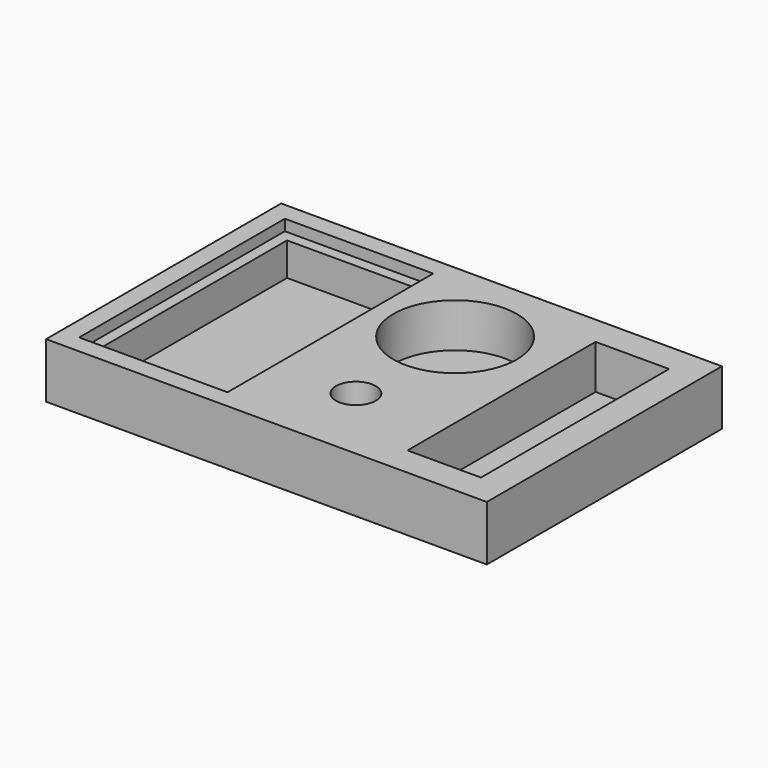
from build123d import *

# Parameters (mm, degrees)
F0_W     = 152.4
F0_H     = 101.6
F0_W_2   = 25.4
F0_H_2   = 81.28
F0_R     = 6.8811471087
F1_DEPTH = 19.05
F2_DEPTH = 3.81
F3_W     = 51.308
F3_H     = 88.9
F3_W_2   = 43.688
F3_H_2   = 81.28
F4_DEPTH = 3.81


with BuildPart() as f1:
    # F0 (on Top) → F1 (new body)
    with BuildSketch(Plane.XY):
        with Locations((-13.9326911301, 0.1037381589)):
            Rectangle(F0_W, F0_H)
        Polygon((-79.9726911301, -4.4682618411), (-79.9726911301, 40.7437381589), (-36.2846911301, 40.7437381589), (-26.1246911301, 40.7437381589), (-4.7886911301, 40.7437381589), (16.5473088699, 40.7437381589), (16.5473088699, 19.4077381589), (16.5473088699, -40.5362618411), (-26.1246911301, -40.5362618411), (-36.2846911301, -40.5362618411), (-79.9726911301, -40.5362618411), align=None, mode=Mode.SUBTRACT)
        with Locations((39.4073088699, 0.1037381589)):
            Rectangle(F0_W_2, F0_H_2, mode=Mode.SUBTRACT)
        with BuildLine():
            ThreePointArc((16.5473088699, 19.4077381589), (-4.7886911301, -1.9282618411), (-26.1246911301, 19.4077381589))
            Line((-26.1246911301, 19.4077381589), (-26.1246911301, -40.5362618411))
            Line((-26.1246911301, -40.5362618411), (16.5473088699, -40.5362618411))
            Line((16.5473088699, -40.5362618411), (16.5473088699, 19.4077381589))
        make_face()
        with Locations((-5.0076562911, -23.2165120542)):
            Circle(F0_R, mode=Mode.SUBTRACT)
        with BuildLine():
            Line((16.5473088699, 40.7437381589), (-4.7886911301, 40.7437381589))
            ThreePointArc((-4.7886911301, 40.7437381589), (10.2981391533, 34.4945684423), (16.5473088699, 19.4077381589))
            Line((16.5473088699, 19.4077381589), (16.5473088699, 40.7437381589))
        make_face()
        with BuildLine():
            Line((-4.7886911301, 40.7437381589), (-26.1246911301, 40.7437381589))
            Line((-26.1246911301, 40.7437381589), (-26.1246911301, 19.4077381589))
            ThreePointArc((-26.1246911301, 19.4077381589), (-19.8755214135, 34.4945684423), (-4.7886911301, 40.7437381589))
        make_face()
        Polygon((-26.1246911301, 40.7437381589), (-36.2846911301, 40.7437381589), (-36.2846911301, -40.5362618411), (-26.1246911301, -40.5362618411), (-26.1246911301, 19.4077381589), align=None)
    extrude(amount=F1_DEPTH)

    # F0 (on Top) → F2 (join)
    with BuildSketch(Plane.XY):
        Polygon((-36.2846911301, 40.7437381589), (-79.9726911301, 40.7437381589), (-79.9726911301, -4.4682618411), (-79.9726911301, -40.5362618411), (-36.2846911301, -40.5362618411), align=None)
        with BuildLine():
            ThreePointArc((16.5473088699, 19.4077381589), (10.2981391533, 34.4945684423), (-4.7886911301, 40.7437381589))
            ThreePointArc((-4.7886911301, 40.7437381589), (-19.8755214135, 34.4945684423), (-26.1246911301, 19.4077381589))
            ThreePointArc((-26.1246911301, 19.4077381589), (-4.7886911301, -1.9282618411), (16.5473088699, 19.4077381589))
        make_face()
        with Locations((-5.0076562911, -23.2165120542)):
            Circle(F0_R)
        with Locations((39.4073088699, 0.1037381589)):
            Rectangle(F0_W_2, F0_H_2)
    extrude(amount=F2_DEPTH)

    # F3 (on face) → F4 (cut)
    with BuildSketch(Plane.XY.offset(19.05)):
        with Locations((-58.1286911301, 0.1037381589)):
            Rectangle(F3_W, F3_H)
        with Locations((-58.1286911301, 0.1037381589)):
            Rectangle(F3_W_2, F3_H_2, mode=Mode.SUBTRACT)
        with Locations((-58.1286911301, 0.1037381589)):
            Rectangle(F3_W_2, F3_H_2)
    extrude(amount=-F4_DEPTH, mode=Mode.SUBTRACT)


solid = f1.part
